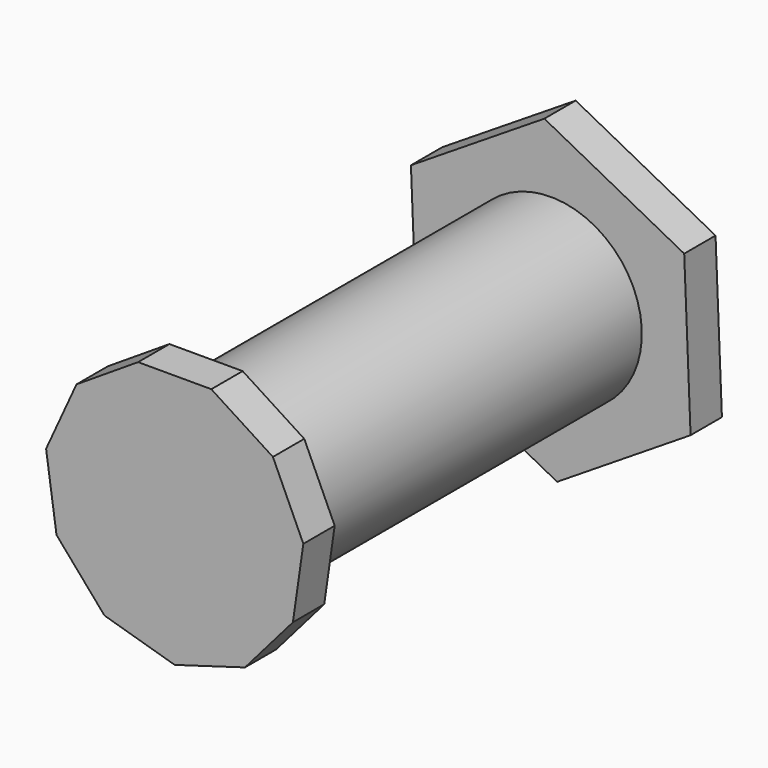
from build123d import *

# Parameters (mm, degrees)
F1_DEPTH = 12.7
F2_R     = 29.530414
F3_DEPTH = 152.4
F4_R     = 29.530414
F5_DEPTH = 12.7


with BuildPart() as f1:
    # F0 (on Front) → F1 (new body)
    with BuildSketch(Plane.XZ):
        Polygon((11.869742, 40.42463), (-11.869742, 40.42463), (-31.840668, 27.590096), (-41.702406, 5.995901), (-38.323925, -17.50195), (-22.777869, -35.443056), (0, -42.131241), (22.777869, -35.443056), (38.323925, -17.50195), (41.702406, 5.995901), (31.840668, 27.590096), align=None)
    extrude(amount=F1_DEPTH)

    # F2 (on face) → F3 (join)
    with BuildSketch(Plane(origin=(0, 0, 0), x_dir=(-1, 0, 0), z_dir=(0, 1, 0))):
        Circle(F2_R)
    extrude(amount=F3_DEPTH)

    # F4 (on face) → F5 (join)
    with BuildSketch(Plane(origin=(0, 152.4, 0), x_dir=(-1, 0, 0), z_dir=(0, 1, 0))):
        Polygon((45.335108, 23.784663), (2.069431, 51.153686), (-43.265676, 27.369023), (-45.335108, -23.784663), (-2.069431, -51.153686), (43.265676, -27.369023), align=None)
        Circle(F4_R, mode=Mode.SUBTRACT)
    extrude(amount=-F5_DEPTH)


solid = f1.part
